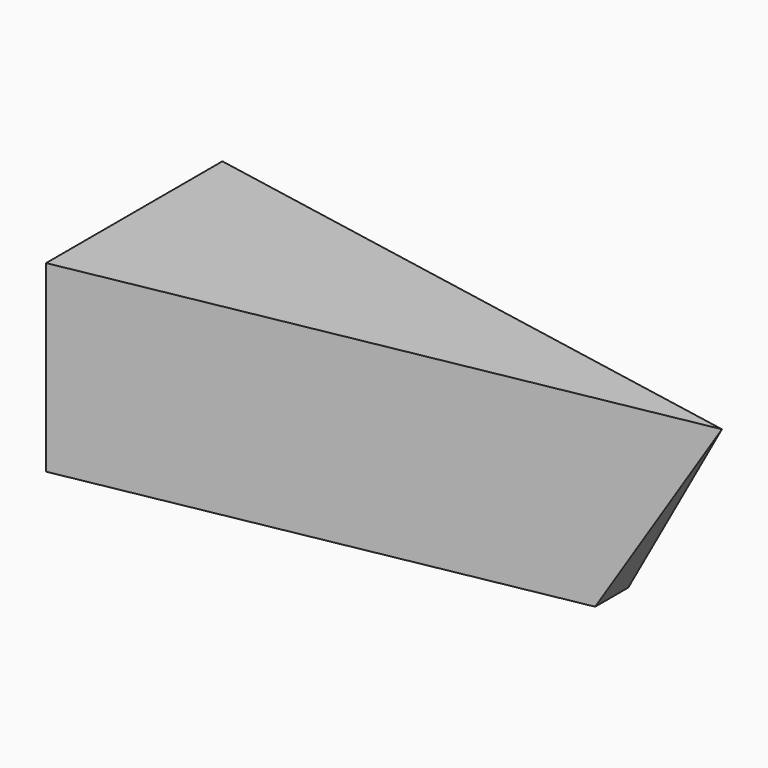
from build123d import *

# Parameters (mm, degrees)
F0_W     = 152.390406
F0_H     = 47.625
F1_DEPTH = 57.15
F3_DEPTH = 57.15
F5_DEPTH = 76.2
F6_DEPTH = 127
F8_DEPTH = 50.8


with BuildPart() as f1:
    # F0 (on Front) → F1 (new body)
    with BuildSketch(Plane.XZ):
        with Locations((76.195203, 23.8125)):
            Rectangle(F0_W, F0_H)
    extrude(amount=F1_DEPTH)

    # F2 (on face) → F3 (cut)
    with BuildSketch(Plane.XZ.offset(57.15)):
        Polygon((152.390406, 0), (152.390406, 47.625), (123.815406, 0), align=None)
    extrude(amount=-F3_DEPTH, mode=Mode.SUBTRACT)

    # F4 (on face) → F5 (join)
    with BuildSketch(Plane.XY.offset(47.625)):
        Polygon((0, 0), (152.390406, -28.575), (152.390406, 0), align=None)
    extrude(amount=F5_DEPTH)

    # F5_face (on face) → F6 (cut)
    with BuildSketch(Plane(origin=(101.593604, -9.525, 123.825), x_dir=(1, 0, 0), z_dir=(0, 0, 1))):
        Polygon((-101.593604, 9.525), (50.796802, -19.05), (50.796802, 9.525), align=None)
    extrude(amount=-F6_DEPTH, mode=Mode.SUBTRACT)

    # F7 (on face) → F8 (cut)
    with BuildSketch(Plane.XY.offset(47.625)):
        Polygon((152.390406, -57.15), (152.390406, -28.575), (0, -57.15), align=None)
    extrude(amount=-F8_DEPTH, mode=Mode.SUBTRACT)


solid = f1.part
